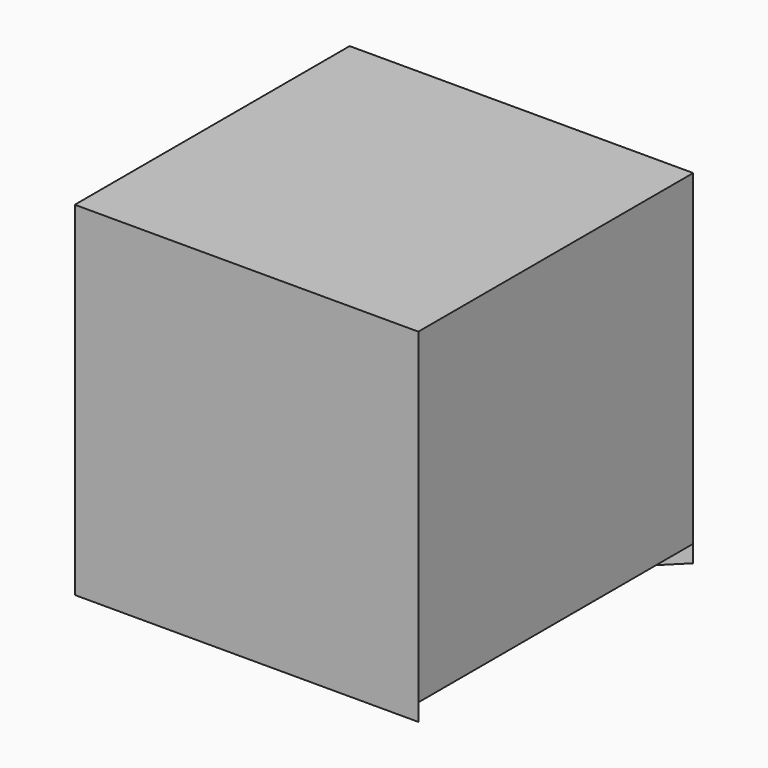
from build123d import *

# Parameters (mm, degrees)
F0_W     = 20
F0_H     = 20
F1_DEPTH = 20
F3_DEPTH = 1


with BuildPart() as f1:
    # F0 (on Front) → F1 (new body)
    with BuildSketch(Plane.XZ):
        with Locations((-10, -10)):
            Rectangle(F0_W, F0_H)
    extrude(amount=F1_DEPTH)

    # F2 (on face) → F3 (cut)
    with BuildSketch(Plane(origin=(0, 0, -20), x_dir=(1, 0, 0), z_dir=(0, 0, -1))):
        with BuildLine():
            ThreePointArc((-13.0285681023, 6.9714318977), (-16.2748573364, 6.9714318977), (-16.2748573364, 3.7251426636))
            Line((-16.2748573364, 3.7251426636), (-13.0285681023, 6.9714318977))
        make_face()
        with BuildLine():
            ThreePointArc((-16.9547054218, 16.9547054218), (-16.9547054218, 13.2777501596), (-13.2777501596, 13.2777501596))
            Line((-13.2777501596, 13.2777501596), (-16.9547054218, 16.9547054218))
        make_face()
        with BuildLine():
            Line((-16.9547054218, 16.9547054218), (-13.2777501596, 13.2777501596))
            ThreePointArc((-13.2777501596, 13.2777501596), (-12.7141410062, 14.1212508666), (-12.5162277907, 15.1162277907))
            ThreePointArc((-12.5162277907, 15.1162277907), (-14.1212508666, 17.5183145752), (-16.9547054218, 16.9547054218))
        make_face()
        with BuildLine():
            ThreePointArc((-11.8384776311, 11.8384776311), (-12.6, 10), (-11.8384776311, 8.1615223689))
            Line((-11.8384776311, 8.1615223689), (-10, 10))
            Line((-10, 10), (-11.8384776311, 11.8384776311))
        make_face()
        with BuildLine():
            Line((-10, 10), (-11.8384776311, 8.1615223689))
            ThreePointArc((-11.8384776311, 8.1615223689), (-10, 7.4), (-8.1615223689, 8.1615223689))
            Line((-8.1615223689, 8.1615223689), (-10, 10))
        make_face()
        with BuildLine():
            Line((-13.0285681023, 6.9714318977), (-16.2748573364, 3.7251426636))
            ThreePointArc((-16.2748573364, 3.7251426636), (-13.7732731826, 3.2275466374), (-12.3562395882, 5.3482872806))
            ThreePointArc((-12.3562395882, 5.3482872806), (-12.5309720761, 6.2267268174), (-13.0285681023, 6.9714318977))
        make_face()
        with BuildLine():
            Line((-11.8384776311, 11.8384776311), (-10, 10))
            Line((-10, 10), (-8.1615223689, 11.8384776311))
            ThreePointArc((-8.1615223689, 11.8384776311), (-10, 12.6), (-11.8384776311, 11.8384776311))
        make_face()
        with BuildLine():
            Line((-8.1615223689, 11.8384776311), (-10, 10))
            Line((-10, 10), (-8.1615223689, 8.1615223689))
            ThreePointArc((-8.1615223689, 8.1615223689), (-7.5979132155, 9.0050230759), (-7.4, 10))
            ThreePointArc((-7.4, 10), (-7.5979132155, 10.9949769241), (-8.1615223689, 11.8384776311))
        make_face()
        with BuildLine():
            ThreePointArc((-7.4, 10), (-7.5979132155, 9.0050230759), (-8.1615223689, 8.1615223689))
            Line((-8.1615223689, 8.1615223689), (-6.7114877282, 6.7114877282))
            ThreePointArc((-6.7114877282, 6.7114877282), (-3.8780331729, 7.2750968816), (-2.2730100971, 4.8730100971))
            ThreePointArc((-2.2730100971, 4.8730100971), (-2.4709233125, 3.8780331729), (-3.034532466, 3.034532466))
            Line((-3.034532466, 3.034532466), (0, 0))
            Line((0, 0), (0, 20))
            Line((0, 20), (-3.3504526736, 16.6495473264))
            ThreePointArc((-3.3504526736, 16.6495473264), (-2.7868435202, 15.8060466194), (-2.5889303047, 14.8110696953))
            ThreePointArc((-2.5889303047, 14.8110696953), (-4.1939533806, 12.4089829107), (-7.0274079358, 12.9725920642))
            Line((-7.0274079358, 12.9725920642), (-8.1615223689, 11.8384776311))
            ThreePointArc((-8.1615223689, 11.8384776311), (-7.5979132155, 10.9949769241), (-7.4, 10))
        make_face()
        with BuildLine():
            ThreePointArc((-2.2730100971, 4.8730100971), (-3.8780331729, 7.2750968816), (-6.7114877282, 6.7114877282))
            Line((-6.7114877282, 6.7114877282), (-3.034532466, 3.034532466))
            ThreePointArc((-3.034532466, 3.034532466), (-2.4709233125, 3.8780331729), (-2.2730100971, 4.8730100971))
        make_face()
        with BuildLine():
            Line((-3.034532466, 3.034532466), (-6.7114877282, 6.7114877282))
            ThreePointArc((-6.7114877282, 6.7114877282), (-6.7114877282, 3.034532466), (-3.034532466, 3.034532466))
        make_face()
        with BuildLine():
            ThreePointArc((-3.3504526736, 16.6495473264), (-7.0274079358, 16.6495473264), (-7.0274079358, 12.9725920642))
            Line((-7.0274079358, 12.9725920642), (-3.3504526736, 16.6495473264))
        make_face()
        with BuildLine():
            Line((-3.3504526736, 16.6495473264), (-7.0274079358, 12.9725920642))
            ThreePointArc((-7.0274079358, 12.9725920642), (-4.1939533806, 12.4089829107), (-2.5889303047, 14.8110696953))
            ThreePointArc((-2.5889303047, 14.8110696953), (-2.7868435202, 15.8060466194), (-3.3504526736, 16.6495473264))
        make_face()
    extrude(amount=-F3_DEPTH, mode=Mode.SUBTRACT)


solid = f1.part
